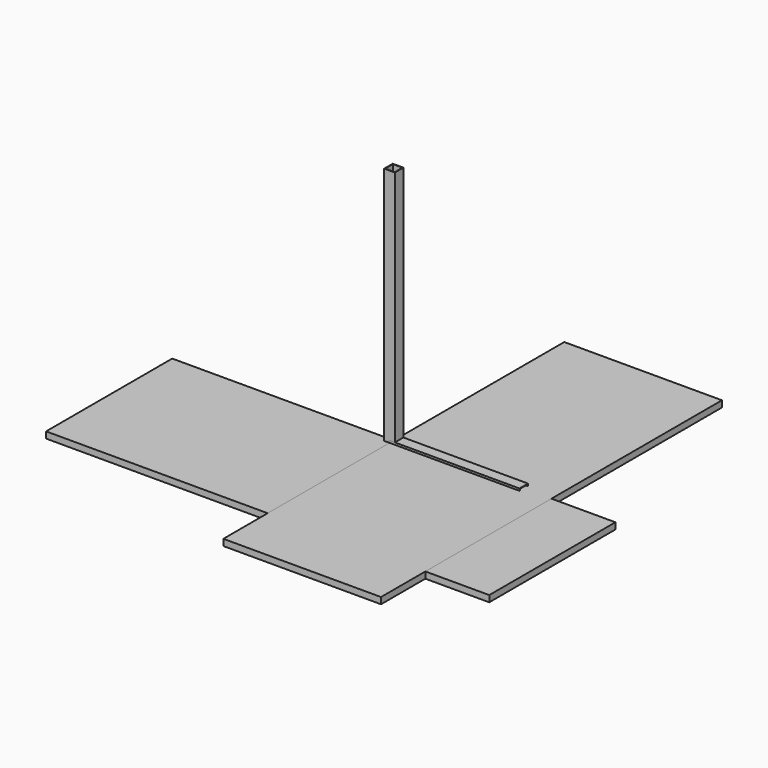
from build123d import *

# Parameters (mm, degrees)
F1_DEPTH = 469.9
F2_W     = 469.9
F2_H     = 9.525
F3_DEPTH = 469.9
F4_T     = -9.525
F5_T     = -9.525
F6_W     = 31.75
F6_H     = 31.75
F6_W_2   = 28.575
F6_H_2   = 28.575
F7_DEPTH = 723.9
F8_W     = 31.75
F8_H     = 31.75
F8_W_2   = 28.575
F8_H_2   = 28.575
F9_DEPTH = 387.35


with BuildPart() as f1:
    # F0 (on Front) → F1 (new body)
    with BuildSketch(Plane.XZ):
        Polygon((660.4, 0), (660.4, 9.525), (-660.4, 9.525), (-660.4, -9.525), (650.875, -9.525), (660.4, -9.525), align=None)
    extrude(amount=F1_DEPTH)

    # F4
    f4_openings = [f1.faces().sort_by_distance(p)[0] for p in [
        (0, -234.95, -9.525),
    ]]
    offset(amount=F4_T, openings=f4_openings)


with BuildPart() as f3:
    # F2 (on Right) → F3 (new body)
    with BuildSketch(Plane.YZ):
        Polygon((635, -9.525), (635, 9.525), (-165.1, 9.525), (-165.1, 0), (-635, 0), (-635, -9.525), align=None)
        with Locations((-400.05, 4.7625)):
            Rectangle(F2_W, F2_H)
    extrude(amount=F3_DEPTH)

    # F5
    f5_openings = [f3.faces().sort_by_distance(p)[0] for p in [
        (234.95, 0, -9.525),
    ]]
    offset(amount=F5_T, openings=f5_openings)


with BuildPart() as f7:
    # F6 (on Top) → F7 (new body)
    with BuildSketch(Plane.XY):
        Rectangle(F6_W, F6_H)
        Rectangle(F6_W_2, F6_H_2, mode=Mode.SUBTRACT)
    extrude(amount=F7_DEPTH)


with BuildPart() as f9:
    # F8 (on Right) → F9 (new body)
    with BuildSketch(Plane.YZ):
        Rectangle(F8_W, F8_H)
        Rectangle(F8_W_2, F8_H_2, mode=Mode.SUBTRACT)
    extrude(amount=F9_DEPTH)


solid = Compound([f1.part, f3.part, f7.part, f9.part])
